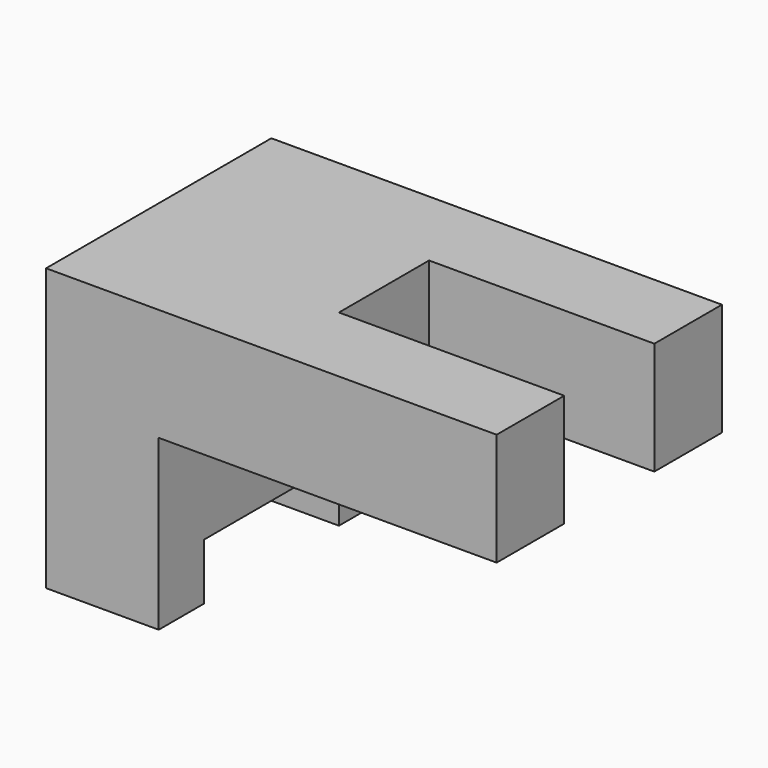
from build123d import *

# Parameters (mm, degrees)
F1_DEPTH = 50.8
F2_W     = 50.8
F2_H     = 127
F3_DEPTH = 50.8
F4_W     = 50.8
F4_H     = 25.4
F5_DEPTH = 25.4
F6_W     = 50.8
F6_H     = 25.4
F7_DEPTH = 25.4


with BuildPart() as f1:
    # F0 (on Top) → F1 (new body)
    with BuildSketch(Plane.XY):
        Polygon((96.703119, 62.693743), (-106.496881, 62.693743), (-106.496881, -64.306257), (96.703119, -64.306257), (96.703119, -26.206257), (-4.896881, -26.206257), (-4.896881, 24.593743), (96.703119, 24.593743), align=None)
        Polygon((96.703119, 62.693743), (-106.496881, 62.693743), (-106.496881, -64.306257), (96.703119, -64.306257), (96.703119, -26.206257), (-4.896881, -26.206257), (-4.896881, 24.593743), (96.703119, 24.593743), align=None)
    extrude(amount=F1_DEPTH)

    # F2 (on face) → F3 (join)
    with BuildSketch(Plane(origin=(0, 0, 0), x_dir=(1, 0, 0), z_dir=(0, 0, -1))):
        with Locations((-81.096881, 0.806257)):
            Rectangle(F2_W, F2_H)
    extrude(amount=F3_DEPTH)

    # F4 (on face) → F5 (join)
    with BuildSketch(Plane(origin=(0, 0, -50.8), x_dir=(1, 0, 0), z_dir=(0, 0, -1))):
        with Locations((-81.096881, -49.993743)):
            Rectangle(F4_W, F4_H)
    extrude(amount=F5_DEPTH)

    # F6 (on face) → F7 (join)
    with BuildSketch(Plane(origin=(0, 0, -50.8), x_dir=(1, 0, 0), z_dir=(0, 0, -1))):
        with Locations((-81.096881, 51.606257)):
            Rectangle(F6_W, F6_H)
    extrude(amount=F7_DEPTH)


solid = f1.part
